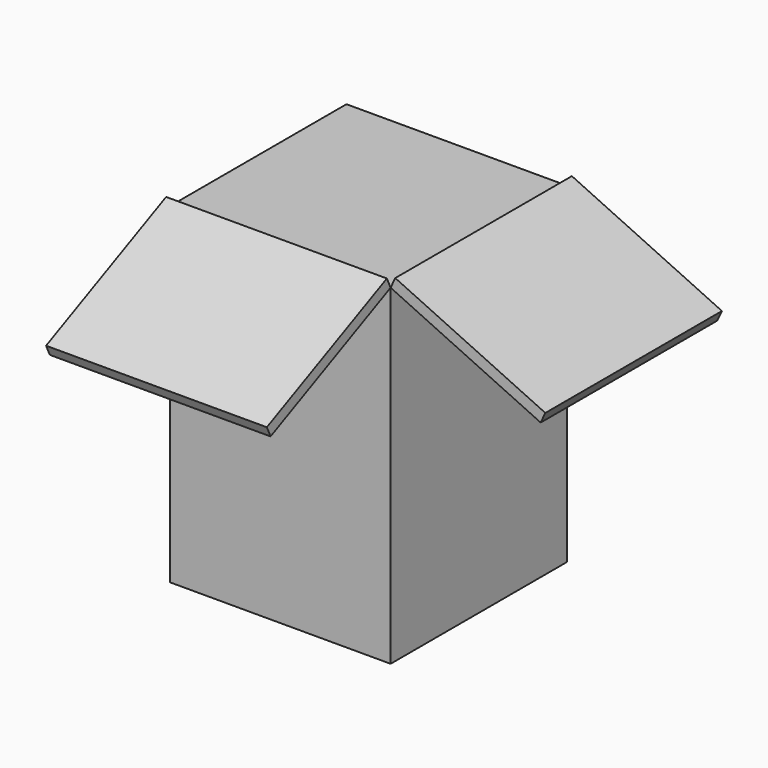
from build123d import *

# Parameters (mm, degrees)
F0_W     = 50.8
F0_H     = 76.2
F1_DEPTH = 25.4
F4_W     = 50.8
F4_H     = 38.1
F5_DEPTH = 2.54
F6_W     = 38.1
F6_H     = 50.8
F7_DEPTH = 2.54


with BuildPart() as f1:
    # F0 (on Front) → F1 (new body, symmetric)
    with BuildSketch(Plane.XZ):
        Rectangle(F0_W, F0_H)
    extrude(amount=F1_DEPTH, both=True)

    # F4 (on face) → F5 (join)
    with BuildSketch(Plane(origin=(0, -19.129744, 41.023868), x_dir=(1, 0, 0), z_dir=(0, -0.422618, 0.906308))):
        with Locations((0, -25.968462)):
            Rectangle(F4_W, F4_H)
    extrude(amount=F5_DEPTH)


with BuildPart() as f7:
    # F6 (on face) → F7 (new body)
    with BuildSketch(Plane(origin=(19.129744, 0, 41.023868), x_dir=(0.906308, 0, -0.422618), z_dir=(0.422618, 0, 0.906308))):
        with Locations((25.968462, 0)):
            Rectangle(F6_W, F6_H)
    extrude(amount=F7_DEPTH)


solid = Compound([f1.part, f7.part])
